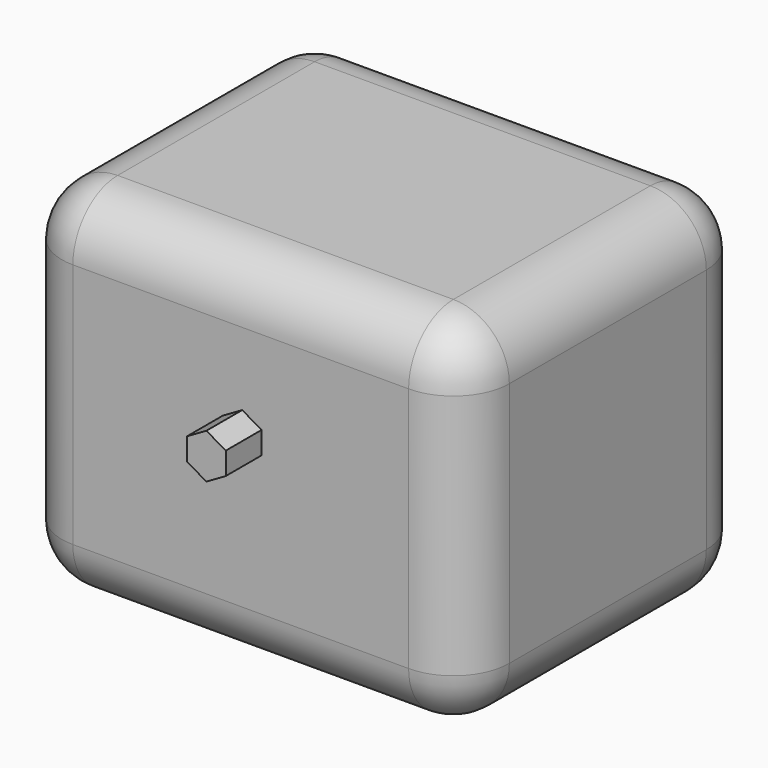
from build123d import *

# Parameters (mm, degrees)
SKETCH002_W  = 2
SKETCH002_H  = 1.6
PAD001_DEPTH = 1.6
FILLET003_R  = 0.25
PAD_DEPTH    = 0.2


with BuildPart() as part:
    # Sketch002 → Pad001 (new body)
    with BuildSketch(Plane(origin=(-0.006516, 2.004042, 0.675175), x_dir=(1, 0, 0), z_dir=(0, 0, 1))):
        with Locations((0, 0.8)):
            Rectangle(SKETCH002_W, SKETCH002_H)
    extrude(amount=-PAD001_DEPTH)

    # Fillet003
    fillet003_edges = [part.edges().sort_by_distance(p)[0] for p in [
        (-1.006516, 3.604042, -0.124825),
        (0.993484, 3.604042, -0.124825),
        (-0.006516, 3.604042, 0.675175),
        (-0.006516, 3.604042, -0.924825),
        (0.993484, 2.004042, -0.124825),
        (0.993484, 2.804042, 0.675175),
        (0.993484, 2.804042, -0.924825),
        (-1.006516, 2.004042, -0.124825),
        (-0.006516, 2.004042, 0.675175),
        (-0.006516, 2.004042, -0.924825),
        (-1.006516, 2.804042, 0.675175),
        (-1.006516, 2.804042, -0.924825),
    ]]
    fillet(fillet003_edges, radius=FILLET003_R)

    # Sketch → Pad (new body)
    with BuildSketch(Plane.XZ.offset(-2.004042)):
        Polygon((0, 0.1), (-0.086603, 0.05), (-0.086603, -0.05), (0, -0.1), (0.086603, -0.05), (0.086603, 0.05), align=None)
    extrude(amount=PAD_DEPTH)


solid = part.part
